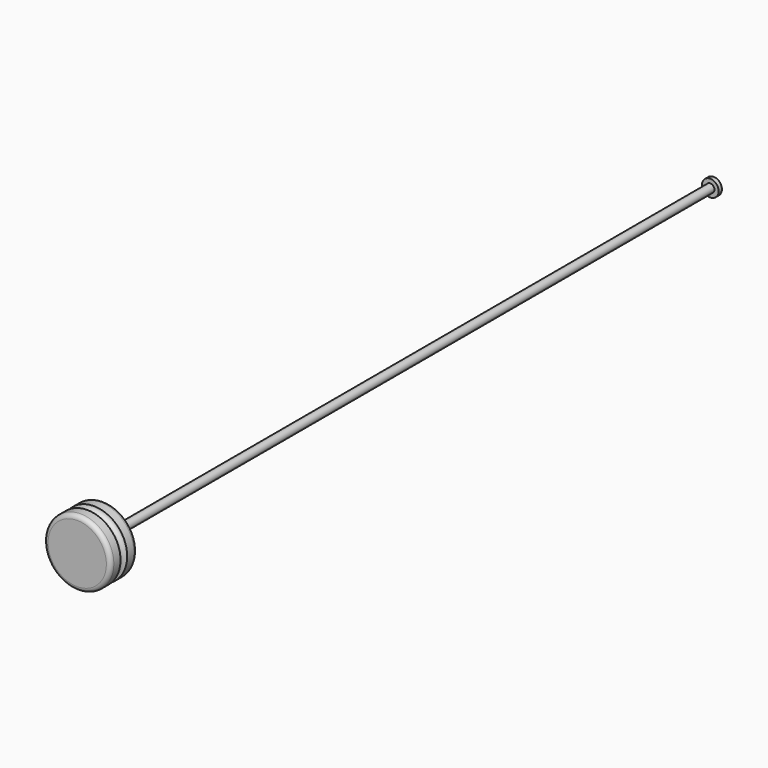
from build123d import *

# Parameters (mm, degrees)
F2_R     = 1.5875
F3_R     = 3.175
F4_DEPTH = 1.5875


with BuildPart() as f1:
    # F0 (on Right) → F1 (revolve)
    with BuildSketch(Plane.YZ):
        with BuildLine():
            Line((-144.4625, 12.7), (-149.225, 12.7))
            Line((-149.225, 12.7), (-149.225, 0))
            Line((-149.225, 0), (-136.525, 0))
            Line((-136.525, 0), (152.4, 0))
            Line((152.4, 0), (152.4, 1.5875))
            Line((152.4, 1.5875), (-136.525, 1.5875))
            Line((-136.525, 1.5875), (-136.525, 12.7))
            Line((-136.525, 12.7), (-141.2875, 12.7))
            ThreePointArc((-141.2875, 12.7), (-142.875, 11.1125), (-144.4625, 12.7))
        make_face()
    revolve(axis=Axis((0, 7.9375, 0), (0, 1, 0)))

    # F2
    f2_edges = [f1.edges().sort_by_distance(p)[0] for p in [
        (0, -136.525, -12.7),
        (0, -149.225, -12.7),
    ]]
    fillet(f2_edges, radius=F2_R)

    # F3 (on face) → F4 (join)
    with BuildSketch(Plane(origin=(0, 152.4, 0), x_dir=(-1, 0, 0), z_dir=(0, 1, 0))):
        Circle(F3_R)
    extrude(amount=F4_DEPTH)


solid = f1.part
